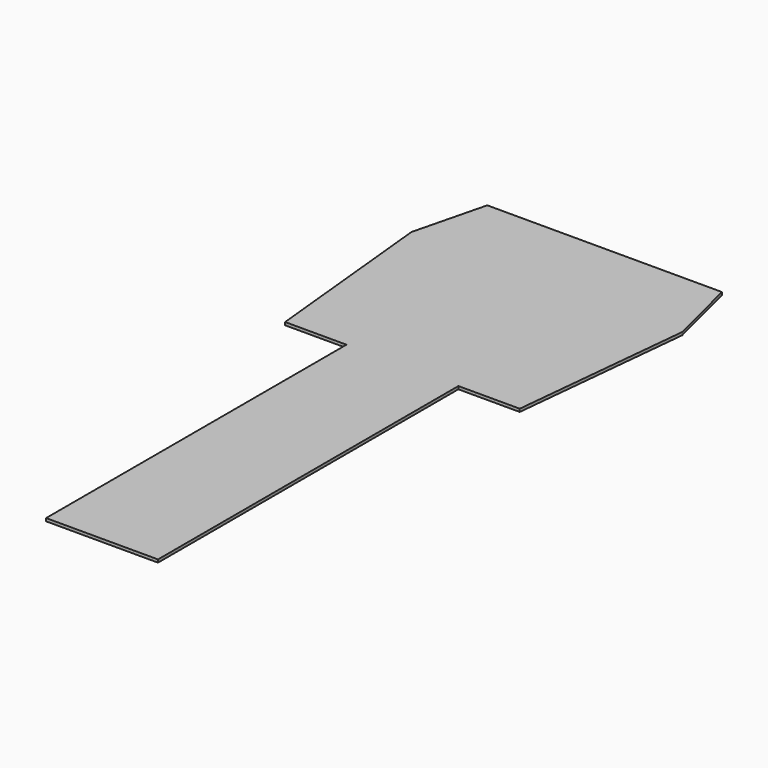
from build123d import *

# Parameters (mm, degrees)
F0_W     = 31
F0_H     = 70
F0_H_2   = 17
F0_H_3   = 50
F0_H_4   = 20
F1_DEPTH = 0.4


with BuildPart() as f1:
    # F0 (on Top) → F1 (new body, symmetric)
    with BuildSketch(Plane.XY):
        Polygon((-8.5, -35), (8.5, -35), (13.5, 15), (8.5, 35), (-8.5, 35), align=None)
        with Locations((-24, 0)):
            Rectangle(F0_W, F0_H)
        with Locations((-24, -43.5)):
            Rectangle(F0_W, F0_H_2)
        Polygon((-56.5, -35), (-39.5, -35), (-39.5, 35), (-56.5, 35), (-61.5, 15), align=None)
        with Locations((-24, -77)):
            Rectangle(F0_W, F0_H_3)
        with Locations((-24, -112)):
            Rectangle(F0_W, F0_H_4)
        with Locations((-24, -130.5)):
            Rectangle(F0_W, F0_H_2)
    extrude(amount=F1_DEPTH, both=True)


solid = f1.part
